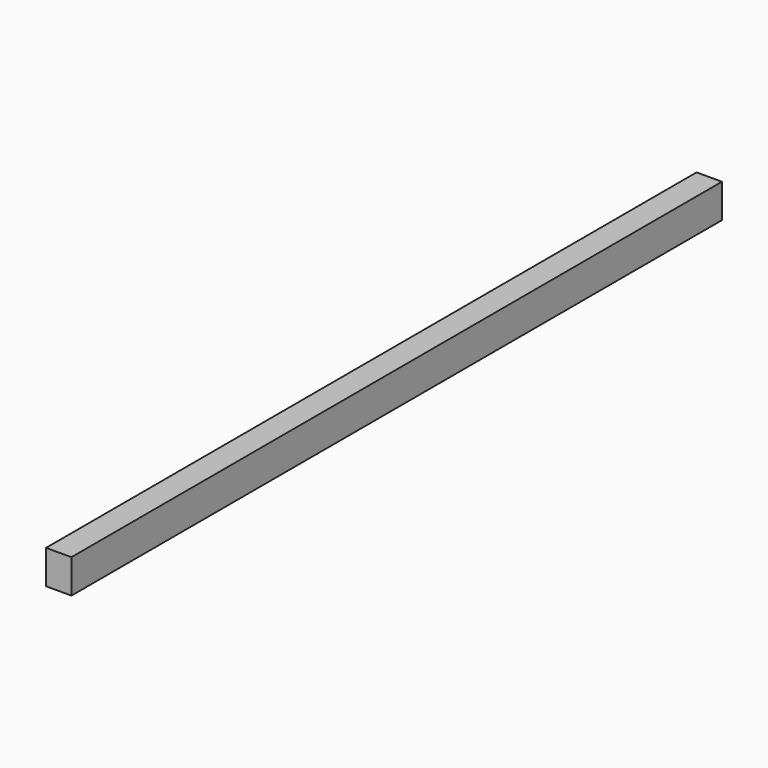
from build123d import *

# Parameters (mm, degrees)
BOX_W     = 609.6
BOX_H     = 19
BOX_DEPTH = 25.4


with BuildPart() as part:
    # Box → Box (new body)
    with BuildSketch(Plane(origin=(43, 156, 0), x_dir=(0, 1, 0), z_dir=(0, 0, -1))):
        with Locations((304.8, 9.5)):
            Rectangle(BOX_W, BOX_H)
    extrude(amount=BOX_DEPTH)


solid = part.part
